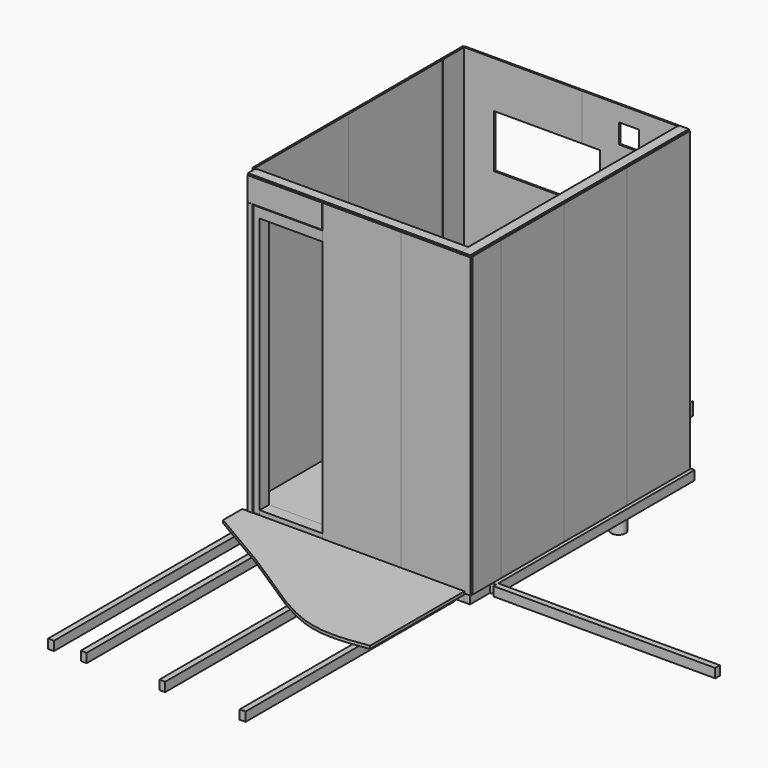
from build123d import *

# Parameters (mm, degrees)
F5_W           = 45
F5_H           = 2000
F6_DEPTH       = 70
F5_W_2         = 10
F5_H_2         = 10
F8_DEPTH       = 22
F9_W           = 45
F9_H           = 2091.5
F10_DEPTH      = 70
F9_W_2         = 1676.5
F9_H_2         = 45
F9_W_3         = 203
F9_W_4         = 553
F9_W_5         = 568
F9_H_3         = 2046.4
F9_W_6         = 1632.3
F9_H_4         = 1900
F9_W_7         = 1694.9
F11_W          = 1621.4
F11_H          = 45
F12_DEPTH      = 70
F11_W_2        = 45
F11_H_2        = 253
F13_W          = 2089
F13_H          = 45
F14_DEPTH      = 35
F13_W_2        = 45
F13_H_2        = 2198
F13_W_3        = 381
F15_W          = 875
F15_H          = 45
F16_DEPTH      = 35
F15_W_2        = 45
F15_H_2        = 2198
F15_W_3        = 1630
F15_H_3        = 2244
F15_W_4        = 708
F15_W_5        = 381
F15_W_6        = 355
F15_H_4        = 98
F18_DEPTH      = 45
F19_W          = 500
F19_H          = 100
F19_R          = 15
F20_DEPTH      = 1
F21_W          = 600
F21_H          = 100
F21_R          = 15
F22_DEPTH      = 1
F23_W          = 300
F23_H          = 300
F23_R          = 100
F24_DEPTH      = 35
F23_R_2        = 75
F25_R          = 55
F26_DEPTH      = 100
F26_DEPTH_BACK = 320
F27_R          = 35
F28_DEPTH      = 100
F28_DEPTH_BACK = 320
F29_R          = 47
F30_DEPTH      = 22
F29_W          = 600
F29_H          = 2010
F29_W_2        = 324
F29_H_2        = 324
F29_R_2        = 67
F31_W          = 900
F31_H          = 2258
F31_R          = 25
F32_DEPTH      = 12.5
F31_W_2        = 207
F33_R          = 25
F34_DEPTH      = 12.5
F33_W          = 772
F33_H          = 184
F33_W_2        = 40
F33_H_2        = 2073
F35_W          = 756.6165652871
F35_H          = 2000.1977607608
F35_R          = 35
F36_DEPTH      = 33
F37_W          = 90
F37_H          = 35
F38_DEPTH      = 605
F39_W          = 900
F39_H          = 2248
F40_DEPTH      = 15
F39_W_2        = 212
F41_W          = 150
F41_H          = 150
F42_DEPTH      = 12.5
F43_W          = 600
F43_H          = 2276
F44_DEPTH      = 12.5
F43_W_2        = 532
F43_W_3        = 571
F43_H_2        = 182
F43_W_4        = 37
F43_H_3        = 2093
F45_W          = 600
F45_H          = 2276
F46_DEPTH      = 12.5
F45_W_2        = 274


with BuildPart() as f6:
    # F5 (on offset) → F6 (new body)
    with BuildSketch(Plane.XY):
        with Locations((102.5, -3099)):
            Rectangle(F5_W, F5_H)
    extrude(amount=-F6_DEPTH)


with BuildPart() as f6b:
    # F5 (on offset) → F6, piece 2 (new body)
    with BuildSketch(Plane.XY):
        with Locations((352.5, -3099)):
            Rectangle(F5_W, F5_H)
    extrude(amount=-F6_DEPTH)


with BuildPart() as f6c:
    # F5 (on offset) → F6, piece 3 (new body)
    with BuildSketch(Plane.XY):
        with Locations((952.5, -3099)):
            Rectangle(F5_W, F5_H)
    extrude(amount=-F6_DEPTH)


with BuildPart() as f6d:
    # F5 (on offset) → F6, piece 4 (new body)
    with BuildSketch(Plane.XY):
        with Locations((1567.5, -3099)):
            Rectangle(F5_W, F5_H)
    extrude(amount=-F6_DEPTH)


with BuildPart() as f6e:
    # F5 (on offset) → F6, piece 5 (new body)
    with BuildSketch(Plane.XY):
        with Locations((5, -5)):
            Rectangle(F5_W_2, F5_H_2)
    extrude(amount=-F6_DEPTH)


with BuildPart() as f8:
    # F7 (on offset) → F8 (new body)
    with BuildSketch(Plane.XY):
        with BuildLine():
            Line((1665, -2099), (-35, -2099))
            Line((-35, -2099), (-35, -2282.3576927185))
            add(Edge.make_bspline(
                [(-35, -2282.3576927185), (159.6961941729, -2397.0351838756), (568.7597225698, -2622.3055492662), (1172.7918497244, -3077.5355804571), (1514.6498652647, -3025.8829939471), (1665, -3003.5224094391)],
                knots=[0, 0, 0, 0, 0.3543494437, 0.7130035461, 1, 1, 1, 1], degree=3))
            Line((1665, -3003.5224094391), (1665, -2099))
        make_face()
    extrude(amount=F8_DEPTH)


with BuildPart() as f10:
    # F9 (on offset) → F10 (new body)
    with BuildSketch(Plane.XY):
        with Locations((1665, -1030.75)):
            Rectangle(F9_W, F9_H)
    extrude(amount=-F10_DEPTH)


with BuildPart() as f10b:
    # F9 (on offset) → F10, piece 2 (new body)
    with BuildSketch(Plane.XY):
        with Locations((803.25, -2054)):
            Rectangle(F9_W_2, F9_H_2)
    extrude(amount=-F10_DEPTH)


with BuildPart() as f10c:
    # F9 (on offset) → F10, piece 3 (new body)
    with BuildSketch(Plane.XY):
        with Locations((227.5, -2121.5)):
            Rectangle(F9_W_3, F9_H_2)
    extrude(amount=-F10_DEPTH)


with BuildPart() as f10d:
    # F9 (on offset) → F10, piece 4 (new body)
    with BuildSketch(Plane.XY):
        with Locations((652.5, -2121.5)):
            Rectangle(F9_W_4, F9_H_2)
    extrude(amount=-F10_DEPTH)


with BuildPart() as f10e:
    # F9 (on offset) → F10, piece 5 (new body)
    with BuildSketch(Plane.XY):
        with Locations((1260, -2121.5)):
            Rectangle(F9_W_5, F9_H_2)
    extrude(amount=-F10_DEPTH)


with BuildPart() as f10f:
    # F9 (on offset) → F10, piece 6 (new body)
    with BuildSketch(Plane.XY):
        with Locations((1619.9, -1008.2)):
            Rectangle(F9_W, F9_H_3)
    extrude(amount=-F10_DEPTH)


with BuildPart() as f10g:
    # F9 (on offset) → F10, piece 7 (new body)
    with BuildSketch(Plane.XY):
        with Locations((781.15, -2008.9)):
            Rectangle(F9_W_6, F9_H_2)
    extrude(amount=-F10_DEPTH)


with BuildPart() as f10h:
    # F9 (on offset) → F10, piece 8 (new body)
    with BuildSketch(Plane.XY):
        with Locations((1710.1, -935)):
            Rectangle(F9_W, F9_H_4)
    extrude(amount=-F10_DEPTH)


with BuildPart() as f10i:
    # F9 (on offset) → F10, piece 9 (new body)
    with BuildSketch(Plane.XY):
        with Locations((2580.15, -1885.5)):
            Rectangle(F9_W_7, F9_H_2)
    extrude(amount=-F10_DEPTH)


with BuildPart() as f12:
    # F11 (on offset) → F12 (new body)
    with BuildSketch(Plane.XY):
        with Locations((785.7, -1730.9)):
            Rectangle(F11_W, F11_H)
    extrude(amount=-F12_DEPTH)


with BuildPart() as f12b:
    # F11 (on offset) → F12, piece 2 (new body)
    with BuildSketch(Plane.XY):
        with Locations((785.7, -1430.9)):
            Rectangle(F11_W, F11_H)
    extrude(amount=-F12_DEPTH)


with BuildPart() as f12c:
    # F11 (on offset) → F12, piece 3 (new body)
    with BuildSketch(Plane.XY):
        with Locations((785.7, -1130.9)):
            Rectangle(F11_W, F11_H)
    extrude(amount=-F12_DEPTH)


with BuildPart() as f12d:
    # F11 (on offset) → F12, piece 4 (new body)
    with BuildSketch(Plane.XY):
        with Locations((785.7, -830.9)):
            Rectangle(F11_W, F11_H)
    extrude(amount=-F12_DEPTH)


with BuildPart() as f12e:
    # F11 (on offset) → F12, piece 5 (new body)
    with BuildSketch(Plane.XY):
        with Locations((785.7, -530.9)):
            Rectangle(F11_W, F11_H)
    extrude(amount=-F12_DEPTH)


with BuildPart() as f12f:
    # F11 (on offset) → F12, piece 6 (new body)
    with BuildSketch(Plane.XY):
        with Locations((785.7, -230.9)):
            Rectangle(F11_W, F11_H)
    extrude(amount=-F12_DEPTH)


with BuildPart() as f12g:
    # F11 (on offset) → F12, piece 7 (new body)
    with BuildSketch(Plane.XY):
        with Locations((785.7, -12.5)):
            Rectangle(F11_W, F11_H)
    extrude(amount=-F12_DEPTH)


with BuildPart() as f12h:
    # F11 (on offset) → F12, piece 8 (new body)
    with BuildSketch(Plane.XY):
        with Locations((1441.9, -1280.9)):
            Rectangle(F11_W_2, F11_H_2)
    extrude(amount=-F12_DEPTH)


with BuildPart() as f12i:
    # F11 (on offset) → F12, piece 9 (new body)
    with BuildSketch(Plane.XY):
        with Locations((1141.9, -1280.9)):
            Rectangle(F11_W_2, F11_H_2)
    extrude(amount=-F12_DEPTH)


with BuildPart() as f14:
    # F13 (on offset) → F14 (new body, symmetric)
    with BuildSketch(Plane.YZ.offset(1665)):
        with Locations((-1044.5, 22.5)):
            Rectangle(F13_W, F13_H)
    extrude(amount=F14_DEPTH, both=True)


with BuildPart() as f14b:
    # F13 (on offset) → F14, piece 2 (new body, symmetric)
    with BuildSketch(Plane.YZ.offset(1665)):
        with Locations((-22.5, 1145)):
            Rectangle(F13_W_2, F13_H_2)
    extrude(amount=F14_DEPTH, both=True)


with BuildPart() as f14c:
    # F13 (on offset) → F14, piece 3 (new body, symmetric)
    with BuildSketch(Plane.YZ.offset(1665)):
        with Locations((-1044.5, 2267.5)):
            Rectangle(F13_W, F13_H)
    extrude(amount=F14_DEPTH, both=True)


with BuildPart() as f14d:
    # F13 (on offset) → F14, piece 4 (new body, symmetric)
    with BuildSketch(Plane.YZ.offset(1665)):
        with Locations((-2066.5, 1145)):
            Rectangle(F13_W_2, F13_H_2)
    extrude(amount=F14_DEPTH, both=True)


with BuildPart() as f14e:
    # F13 (on offset) → F14, piece 5 (new body, symmetric)
    with BuildSketch(Plane.YZ.offset(1665)):
        with Locations((-450.5, 1145)):
            Rectangle(F13_W_2, F13_H_2)
    extrude(amount=F14_DEPTH, both=True)


with BuildPart() as f14f:
    # F13 (on offset) → F14, piece 6 (new body, symmetric)
    with BuildSketch(Plane.YZ.offset(1665)):
        with Locations((-900.5, 1145)):
            Rectangle(F13_W_2, F13_H_2)
    extrude(amount=F14_DEPTH, both=True)


with BuildPart() as f14g:
    # F13 (on offset) → F14, piece 7 (new body, symmetric)
    with BuildSketch(Plane.YZ.offset(1665)):
        with Locations((-1350.5, 1145)):
            Rectangle(F13_W_2, F13_H_2)
    extrude(amount=F14_DEPTH, both=True)


with BuildPart() as f14h:
    # F13 (on offset) → F14, piece 8 (new body, symmetric)
    with BuildSketch(Plane.YZ.offset(1665)):
        with Locations((-236.5, 392.5)):
            Rectangle(F13_W_3, F13_H)
    extrude(amount=F14_DEPTH, both=True)


with BuildPart() as f14i:
    # F13 (on offset) → F14, piece 9 (new body, symmetric)
    with BuildSketch(Plane.YZ.offset(1665)):
        with Locations((-1800.5, 1145)):
            Rectangle(F13_W_2, F13_H_2)
    extrude(amount=F14_DEPTH, both=True)


with BuildPart() as f14j:
    # F13 (on offset) → F14, piece 10 (new body, symmetric)
    with BuildSketch(Plane.YZ.offset(1665)):
        with Locations((-1996.5, 1145)):
            Rectangle(F13_W_2, F13_H_2)
    extrude(amount=F14_DEPTH, both=True)


with BuildPart() as f16:
    # F15 (on offset) → F16 (new body, symmetric)
    with BuildSketch(Plane.XZ.offset(2054)):
        with Locations((1192.5, 22.5)):
            Rectangle(F15_W, F15_H)
    extrude(amount=F16_DEPTH, both=True)


with BuildPart() as f16b:
    # F15 (on offset) → F16, piece 2 (new body, symmetric)
    with BuildSketch(Plane.XZ.offset(2054)):
        with Locations((777.5, 1145)):
            Rectangle(F15_W_2, F15_H_2)
    extrude(amount=F16_DEPTH, both=True)


with BuildPart() as f16c:
    # F15 (on offset) → F16, piece 3 (new body, symmetric)
    with BuildSketch(Plane.XZ.offset(2054)):
        with Locations((815, 2267.5)):
            Rectangle(F15_W_3, F15_H)
    extrude(amount=F16_DEPTH, both=True)


with BuildPart() as f16d:
    # F15 (on offset) → F16, piece 4 (new body, symmetric)
    with BuildSketch(Plane.XZ.offset(2054)):
        with Locations((22.5, 1122)):
            Rectangle(F15_W_2, F15_H_3)
    extrude(amount=F16_DEPTH, both=True)


with BuildPart() as f16e:
    # F15 (on offset) → F16, piece 5 (new body, symmetric)
    with BuildSketch(Plane.XZ.offset(2054)):
        with Locations((400, 2122.5)):
            Rectangle(F15_W_4, F15_H)
    extrude(amount=F16_DEPTH, both=True)


with BuildPart() as f16f:
    # F15 (on offset) → F16, piece 6 (new body, symmetric)
    with BuildSketch(Plane.XZ.offset(2054)):
        with Locations((1179.5, 1145)):
            Rectangle(F15_W_2, F15_H_2)
    extrude(amount=F16_DEPTH, both=True)


with BuildPart() as f16g:
    # F15 (on offset) → F16, piece 7 (new body, symmetric)
    with BuildSketch(Plane.XZ.offset(2054)):
        with Locations((1393.5, 1122.5)):
            Rectangle(F15_W_5, F15_H)
    extrude(amount=F16_DEPTH, both=True)


with BuildPart() as f16h:
    # F15 (on offset) → F16, piece 8 (new body, symmetric)
    with BuildSketch(Plane.XZ.offset(2054)):
        with Locations((978.5, 1122.5)):
            Rectangle(F15_W_6, F15_H)
    extrude(amount=F16_DEPTH, both=True)


with BuildPart() as f16i:
    # F15 (on offset) → F16, piece 9 (new body, symmetric)
    with BuildSketch(Plane.XZ.offset(2054)):
        with Locations((400, 2195)):
            Rectangle(F15_W_2, F15_H_4)
    extrude(amount=F16_DEPTH, both=True)


with BuildPart() as f16j:
    # F15 (on offset) → F16, piece 10 (new body, symmetric)
    with BuildSketch(Plane.XZ.offset(2054)):
        with Locations((1607.5, 1145)):
            Rectangle(F15_W_2, F15_H_2)
    extrude(amount=F16_DEPTH, both=True)


with BuildPart() as f18:
    # F17 (on offset) → F18 (new body, symmetric)
    with BuildSketch(Plane.XZ.offset(2054)):
        Polygon((50, 2095), (50, 25), (97.5, 25), (97.5, 2020), (702.5, 2020), (702.5, 25), (750, 25), (750, 2095), align=None)
    extrude(amount=F18_DEPTH, both=True)


with BuildPart() as f20:
    # F19 (on face) → F20 (new body)
    with BuildSketch(Plane(origin=(0, -2019, 0), x_dir=(-1, 0, 0), z_dir=(0, 1, 0))):
        with Locations((-1437, 1142)):
            Rectangle(F19_W, F19_H)
        with Locations((-1487, 1142)):
            Circle(F19_R, mode=Mode.SUBTRACT)
        with Locations((-1447, 1142)):
            Circle(F19_R, mode=Mode.SUBTRACT)
        with Locations((-1407, 1142)):
            Circle(F19_R, mode=Mode.SUBTRACT)
        with Locations((-1367, 1142)):
            Circle(F19_R, mode=Mode.SUBTRACT)
        with Locations((-1327, 1142)):
            Circle(F19_R, mode=Mode.SUBTRACT)
        with Locations((-1287, 1142)):
            Circle(F19_R, mode=Mode.SUBTRACT)
    extrude(amount=F20_DEPTH)


with BuildPart() as f22:
    # F21 (on face) → F22 (new body)
    with BuildSketch(Plane(origin=(1630, 0, 0), x_dir=(0, -1, 0), z_dir=(-1, 0, 0))):
        with Locations((172, 335)):
            Rectangle(F21_W, F21_H)
        with Locations((172, 335)):
            Circle(F21_R, mode=Mode.SUBTRACT)
        with Locations((212, 335)):
            Circle(F21_R, mode=Mode.SUBTRACT)
        with Locations((252, 335)):
            Circle(F21_R, mode=Mode.SUBTRACT)
        with Locations((292, 335)):
            Circle(F21_R, mode=Mode.SUBTRACT)
        with Locations((332, 335)):
            Circle(F21_R, mode=Mode.SUBTRACT)
        with Locations((372, 335)):
            Circle(F21_R, mode=Mode.SUBTRACT)
    extrude(amount=F22_DEPTH)


with BuildPart() as f24:
    # F23 (on offset) → F24 (new body)
    with BuildSketch(Plane.XY):
        with Locations((1291.9, -1280.9)):
            Rectangle(F23_W, F23_H)
        with Locations((1291.9, -1280.9)):
            Circle(F23_R, mode=Mode.SUBTRACT)
    extrude(amount=F24_DEPTH)


with BuildPart() as f24b:
    # F23 (on offset) → F24, piece 2 (new body)
    with BuildSketch(Plane.XY):
        with Locations((1291.9, -1280.9)):
            Circle(F23_R_2)
    extrude(amount=F24_DEPTH)


with BuildPart() as f26:
    # F25 (on offset) → F26 (new body, two sides)
    with BuildSketch(Plane.XY) as f26_sk:
        with Locations((1483, -403)):
            Circle(F25_R)
    extrude(amount=F26_DEPTH)
    extrude(f26_sk.sketch, amount=-F26_DEPTH_BACK)


with BuildPart() as f28:
    # F27 (on offset) → F28 (new body, two sides)
    with BuildSketch(Plane.XY) as f28_sk:
        with Locations((145, -445)):
            Circle(F27_R)
    extrude(amount=F28_DEPTH)
    extrude(f28_sk.sketch, amount=-F28_DEPTH_BACK)


with BuildPart() as f30:
    # F29 (on offset) → F30 (new body)
    with BuildSketch(Plane.XY):
        Polygon((416, 3), (-23, 3), (-23, -2007), (57, -2007), (57, -2089), (416, -2089), align=None)
        with Locations((145, -445)):
            Circle(F29_R, mode=Mode.SUBTRACT)
    extrude(amount=F30_DEPTH)


with BuildPart() as f30b:
    # F29 (on offset) → F30, piece 2 (new body)
    with BuildSketch(Plane.XY):
        Polygon((1017, -2007), (1017, 3), (417, 3), (417, -2089), (743, -2089), (743, -2007), align=None)
    extrude(amount=F30_DEPTH)


with BuildPart() as f30c:
    # F29 (on offset) → F30, piece 3 (new body)
    with BuildSketch(Plane.XY):
        with Locations((1318, -1002)):
            Rectangle(F29_W, F29_H)
        with Locations((1291.9, -1280.9)):
            Rectangle(F29_W_2, F29_H_2, mode=Mode.SUBTRACT)
        with Locations((1483, -403)):
            Circle(F29_R_2, mode=Mode.SUBTRACT)
    extrude(amount=F30_DEPTH)


with BuildPart() as f32:
    # F31 (on face) → F32 (new body)
    with BuildSketch(Plane(origin=(1630, 0, 0), x_dir=(0, -1, 0), z_dir=(-1, 0, 0))):
        with Locations((455, 1156)):
            Rectangle(F31_W, F31_H)
        with Locations((332, 335)):
            Circle(F31_R, mode=Mode.SUBTRACT)
    extrude(amount=F32_DEPTH)


with BuildPart() as f32b:
    # F31 (on face) → F32, piece 2 (new body)
    with BuildSketch(Plane(origin=(1630, 0, 0), x_dir=(0, -1, 0), z_dir=(-1, 0, 0))):
        with Locations((1356, 1156)):
            Rectangle(F31_W, F31_H)
    extrude(amount=F32_DEPTH)


with BuildPart() as f32c:
    # F31 (on face) → F32, piece 3 (new body)
    with BuildSketch(Plane(origin=(1630, 0, 0), x_dir=(0, -1, 0), z_dir=(-1, 0, 0))):
        with Locations((1910.5, 1156)):
            Rectangle(F31_W_2, F31_H)
    extrude(amount=F32_DEPTH)


with BuildPart() as f34:
    # F33 (on face) → F34 (new body)
    with BuildSketch(Plane(origin=(0, -2019, 0), x_dir=(-1, 0, 0), z_dir=(0, 1, 0))):
        Polygon((-1612.5, 2285), (-1612.5, 27), (-755, 27), (-755, 2100), (-778, 2100), (-778, 2285), align=None)
        with Locations((-1447, 1142)):
            Circle(F33_R, mode=Mode.SUBTRACT)
        with Locations((-1287, 1142)):
            Circle(F33_R, mode=Mode.SUBTRACT)
    extrude(amount=F34_DEPTH)


with BuildPart() as f34b:
    # F33 (on face) → F34, piece 2 (new body)
    with BuildSketch(Plane(origin=(0, -2019, 0), x_dir=(-1, 0, 0), z_dir=(0, 1, 0))):
        with Locations((-391, 2193)):
            Rectangle(F33_W, F33_H)
    extrude(amount=F34_DEPTH)


with BuildPart() as f34c:
    # F33 (on face) → F34, piece 3 (new body)
    with BuildSketch(Plane(origin=(0, -2019, 0), x_dir=(-1, 0, 0), z_dir=(0, 1, 0))):
        with Locations((-25, 1063.5)):
            Rectangle(F33_W_2, F33_H_2)
    extrude(amount=F34_DEPTH)


with BuildPart() as f36:
    # F35 (on face) → F36 (new body)
    with BuildSketch(Plane.XY.offset(22)):
        with Locations((366.6917173564, -1006.4011196196)):
            Rectangle(F35_W, F35_H)
        with Locations((145, -445)):
            Circle(F35_R, mode=Mode.SUBTRACT)
    extrude(amount=F36_DEPTH)


with BuildPart() as f38:
    # F37 (on face) → F38 (new body, through all)
    with BuildSketch(Plane(origin=(702.5, 0, 0), x_dir=(0, -1, 0), z_dir=(-1, 0, 0))):
        with Locations((2054, 39.5)):
            Rectangle(F37_W, F37_H)
    extrude(amount=F38_DEPTH)


with BuildPart() as f40:
    # F39 (on offset) → F40 (new body)
    with BuildSketch(Plane.YZ.offset(-35)):
        with Locations((-1554, 1156)):
            Rectangle(F39_W, F39_H)
    extrude(amount=F40_DEPTH)


with BuildPart() as f40b:
    # F39 (on offset) → F40, piece 2 (new body)
    with BuildSketch(Plane.YZ.offset(-35)):
        with Locations((-653, 1156)):
            Rectangle(F39_W, F39_H)
    extrude(amount=F40_DEPTH)


with BuildPart() as f40c:
    # F39 (on offset) → F40, piece 3 (new body)
    with BuildSketch(Plane.YZ.offset(-35)):
        with Locations((-96, 1156)):
            Rectangle(F39_W_2, F39_H)
    extrude(amount=F40_DEPTH)


with BuildPart() as f42:
    # F41 (on offset) → F42 (new body)
    with BuildSketch(Plane.XZ.offset(-15)):
        Polygon((880.1, 22), (1612.5, 22), (1612.5, 2280), (880.1, 2280), (880.1, 1925), (1018, 1925), (1018, 1520), (880.1, 1520), align=None)
        with Locations((1240, 2085)):
            Rectangle(F41_W, F41_H, mode=Mode.SUBTRACT)
    extrude(amount=F42_DEPTH)


with BuildPart() as f42b:
    # F41 (on offset) → F42, piece 2 (new body)
    with BuildSketch(Plane.XZ.offset(-15)):
        Polygon((-20, 22), (880, 22), (880, 1520), (208, 1520), (208, 1925), (880, 1925), (880, 2280), (-20, 2280), align=None)
    extrude(amount=F42_DEPTH)


with BuildPart() as f44:
    # F43 (on face) → F44 (new body)
    with BuildSketch(Plane.XZ.offset(2089)):
        with Locations((879, 1145)):
            Rectangle(F43_W, F43_H)
    extrude(amount=F44_DEPTH)


with BuildPart() as f44b:
    # F43 (on face) → F44, piece 2 (new body)
    with BuildSketch(Plane.XZ.offset(2089)):
        with Locations((1446, 1145)):
            Rectangle(F43_W_2, F43_H)
    extrude(amount=F44_DEPTH)


with BuildPart() as f44c:
    # F43 (on face) → F44, piece 3 (new body)
    with BuildSketch(Plane.XZ.offset(2089)):
        with Locations((292.5, 2192)):
            Rectangle(F43_W_3, F43_H_2)
    extrude(amount=F44_DEPTH)


with BuildPart() as f44d:
    # F43 (on face) → F44, piece 4 (new body)
    with BuildSketch(Plane.XZ.offset(2089)):
        with Locations((25.5, 1053.5)):
            Rectangle(F43_W_4, F43_H_3)
    extrude(amount=F44_DEPTH)


with BuildPart() as f46:
    # F45 (on face) → F46 (new body)
    with BuildSketch(Plane.YZ.offset(1700)):
        with Locations((-307, 1145)):
            Rectangle(F45_W, F45_H)
    extrude(amount=F46_DEPTH)


with BuildPart() as f46b:
    # F45 (on face) → F46, piece 2 (new body)
    with BuildSketch(Plane.YZ.offset(1700)):
        with Locations((-908, 1145)):
            Rectangle(F45_W, F45_H)
    extrude(amount=F46_DEPTH)


with BuildPart() as f46c:
    # F45 (on face) → F46, piece 3 (new body)
    with BuildSketch(Plane.YZ.offset(1700)):
        with Locations((-1509, 1145)):
            Rectangle(F45_W, F45_H)
    extrude(amount=F46_DEPTH)


with BuildPart() as f46d:
    # F45 (on face) → F46, piece 4 (new body)
    with BuildSketch(Plane.YZ.offset(1700)):
        with Locations((-1947, 1145)):
            Rectangle(F45_W_2, F45_H)
    extrude(amount=F46_DEPTH)


solid = Compound([f6.part, f6b.part, f6c.part, f6d.part, f6e.part, f8.part, f10.part, f10b.part, f10c.part, f10d.part, f10e.part, f10f.part, f10g.part, f10h.part, f10i.part, f12.part, f12b.part, f12c.part, f12d.part, f12e.part, f12f.part, f12g.part, f12h.part, f12i.part, f14.part, f14b.part, f14c.part, f14d.part, f14e.part, f14f.part, f14g.part, f14h.part, f14i.part, f14j.part, f16.part, f16b.part, f16c.part, f16d.part, f16e.part, f16f.part, f16g.part, f16h.part, f16i.part, f16j.part, f18.part, f20.part, f22.part, f24.part, f24b.part, f26.part, f28.part, f30.part, f30b.part, f30c.part, f32.part, f32b.part, f32c.part, f34.part, f34b.part, f34c.part, f36.part, f38.part, f40.part, f40b.part, f40c.part, f42.part, f42b.part, f44.part, f44b.part, f44c.part, f44d.part, f46.part, f46b.part, f46c.part, f46d.part])
